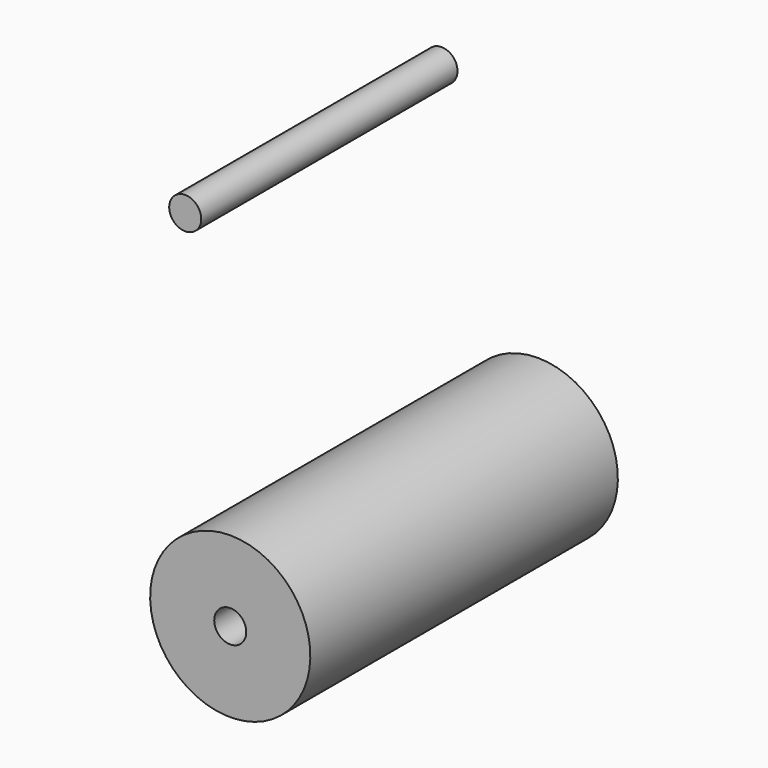
from build123d import *

# Parameters (mm, degrees)
F0_R     = 5
F1_DEPTH = 100
F2_W     = 120
F2_H     = 20


with BuildPart() as f1:
    # F0 (on Front) → F1 (new body)
    with BuildSketch(Plane.XZ):
        with Locations((-63.674517, 28.612208)):
            Circle(F0_R)
    extrude(amount=-F1_DEPTH)


with BuildPart() as f3:
    # F2 (on Right) → F3 (revolve)
    with BuildSketch(Plane.YZ):
        with Locations((-2.03125, -23.998511)):
            Rectangle(F2_W, F2_H)
    revolve(axis=Axis((0, -2.03125, -38.998511), (0, 1, 0)))


solid = Compound([f1.part, f3.part])
